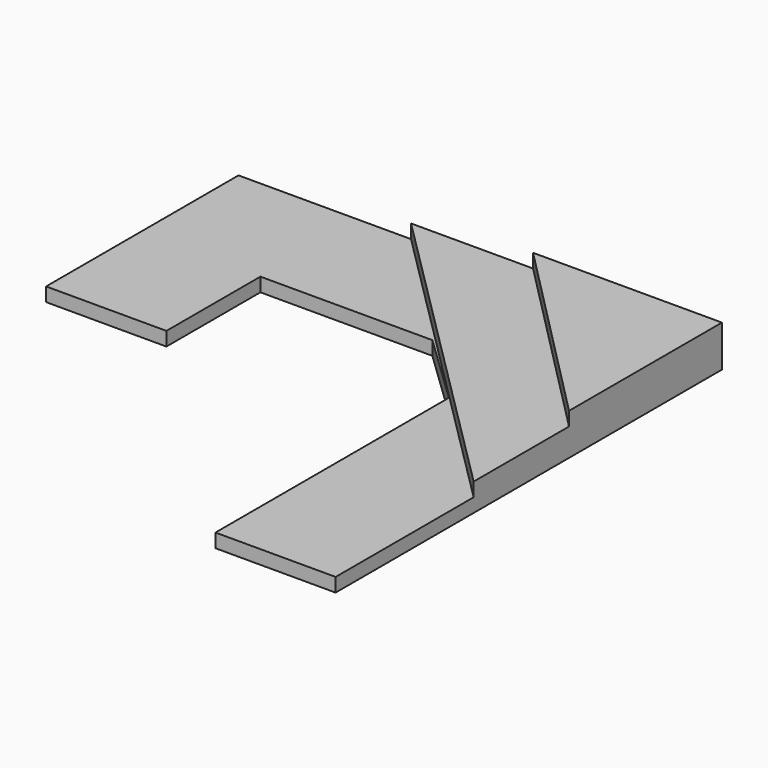
from build123d import *

# Parameters (mm, degrees)
F1_DEPTH = 30.48
F3_DEPTH = 60.96
F5_DEPTH = 91.44


with BuildPart() as f1:
    # F0 (on Top) → F1 (new body)
    with BuildSketch(Plane.XY):
        Polygon((-1066.068411, 0), (-1066.068411, -530.347168), (-800.711095, -530.347168), (-800.711095, -271.248341), (-421.450496, -271.248341), (-264.989853, -421.450555), (-264.989853, -1064.816713), (0, -1064.816713), (0, 0), align=None)
    extrude(amount=F1_DEPTH)

    # F2 (on Top) → F3 (join)
    with BuildSketch(Plane.XY):
        Polygon((0, 0), (-685.556054, 0), (0, -684.304416), align=None)
    extrude(amount=F3_DEPTH)

    # F4 (on Top) → F5 (join)
    with BuildSketch(Plane.XY):
        Polygon((0, 0), (-416.443825, 0), (0, -421.450555), align=None)
    extrude(amount=F5_DEPTH)


solid = f1.part
